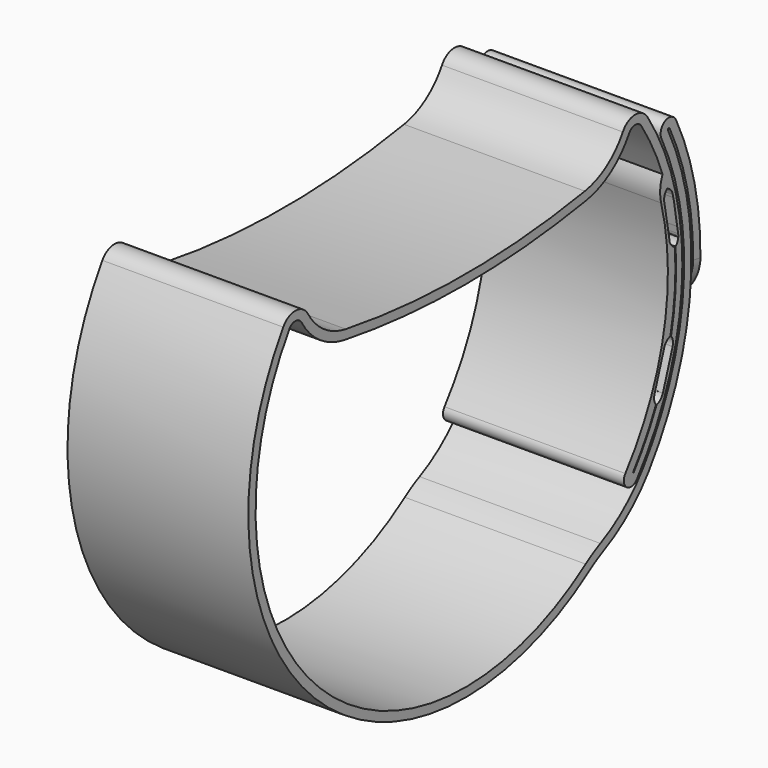
from build123d import *

# Parameters (mm, degrees)
PAD_DEPTH            = 10
POCKET004_DEPTH      = 10.001
POCKET004_DEPTH_BACK = 10.001
FILLET_R             = 5


with BuildPart() as part:
    # Sketch031 → Pad (new body, symmetric)
    with BuildSketch(Plane.YZ):
        with BuildLine():
            ThreePointArc((-25.1785714286, 6.0873812391), (-20.8275502166, -31.8153069654), (17.2072930905, -34.7978986763))
            ThreePointArc((19.0972829456, -33.698609943), (18.1291736499, -34.2085141395), (17.2072930905, -34.7978986763))
            ThreePointArc((19.0972829456, -33.698609943), (22.5681914002, -31.4789887478), (25.3748102311, -28.4628961617))
            ThreePointArc((25.3748102311, -28.4628961617), (31.145297274, -12.7793024717), (28.0089705885, 3.6352364091))
            ThreePointArc((28.2330423532, 3.7461049992), (28.0655721758, 3.8027065865), (28.0089705885, 3.6352364091))
            ThreePointArc((31.066665528, -15.4302839547), (31.1616320501, -5.6186996886), (28.2330423532, 3.7461049992))
            Line((31.066665528, -15.4302839547), (32.0529088781, -15.595583847))
            ThreePointArc((32.0529088781, -15.595583847), (32.1508902105, -5.4725207152), (29.129329412, 4.1895793594))
            ThreePointArc((29.129329412, 4.1895793594), (27.6220978156, 4.6989936454), (27.1126835297, 3.1917620489))
            ThreePointArc((24.5628424703, -27.8791938768), (30.1486495946, -12.6974892471), (27.1126835297, 3.1917620489))
            ThreePointArc((18.6688560963, -32.7950334743), (21.9277036404, -30.7110203695), (24.5628424703, -27.8791938768))
            ThreePointArc((18.6688560963, -32.7950334743), (17.6263968436, -33.3440978723), (16.6337166542, -33.978746632))
            ThreePointArc((-24.3392857143, 5.5436906196), (-20.1332985427, -31.0955746448), (16.6337166542, -33.978746632))
            ThreePointArc((-22.6352951412, 5.5022803073), (-23.4757052121, 5.9997048381), (-24.3392857143, 5.5436906196))
            ThreePointArc((-22.6352951412, 5.5022803073), (-20.1217753495, 2.7817742688), (-16.6898993292, 1.3885184309))
            ThreePointArc((-16.6898993292, 1.3885184309), (0, 0), (16.6898993292, 1.3885184309))
            ThreePointArc((16.6898993292, 1.3885184309), (20.1217753495, 2.7817742688), (22.6352951412, 5.5022803073))
            ThreePointArc((24.3392857143, 5.5436906196), (23.4757052121, 5.9997048381), (22.6352951412, 5.5022803073))
            ThreePointArc((27.2641709757, -0.3407779116), (25.9689416046, 2.6845699939), (24.3392857143, 5.5436906196))
            ThreePointArc((27.2641709757, -0.3407779116), (26.9390804209, -1.6832404813), (27.0677858666, -3.0584948317))
            ThreePointArc((22.1178198442, -27.393137735), (27.4381060497, -15.80458599), (27.0677858666, -3.0584948317))
            ThreePointArc((22.1178198442, -27.393137735), (22.2945348248, -28.7962670289), (23.6976641188, -28.6195520483))
            ThreePointArc((23.6976641188, -28.6195520483), (29.9727276849, -11.5022412242), (25.1785714286, 6.0873812391))
            ThreePointArc((25.1785714286, 6.0873812391), (23.4514104243, 6.9994096762), (21.7705902823, 6.0045606146))
            ThreePointArc((16.5246528012, 2.3747707237), (19.5527787015, 3.6041141101), (21.7705902823, 6.0045606146))
            ThreePointArc((-16.5246528012, 2.3747707237), (0, 1), (16.5246528012, 2.3747707237))
            ThreePointArc((-21.7705902823, 6.0045606146), (-19.5527787015, 3.6041141101), (-16.5246528012, 2.3747707237))
            ThreePointArc((-21.7705902823, 6.0045606146), (-23.4514104243, 6.9994096762), (-25.1785714286, 6.0873812391))
        make_face()
        Polygon((27.5840933648, -3.4048594066), (28.2878580479, -7.5454771468), (29.4708916879, -7.3444015231), (28.7671270049, -3.2037837828), align=None, mode=Mode.SUBTRACT)
        Polygon((27.5163556374, -17.3102281064), (26.1710903804, -21.2889542076), (27.3078692665, -21.6733157096), (28.6531345235, -17.6945896084), align=None, mode=Mode.SUBTRACT)
    extrude(amount=PAD_DEPTH, both=True)

    # Sketch039 → Pocket004 (cut, two sides)
    with BuildSketch(Plane.YZ) as pocket004_sk:
        with BuildLine():
            Line((27.4949433361, -3.1040168152), (28.2442255017, -7.2366402237))
            ThreePointArc((28.2442255017, -7.2366402237), (28.4905833373, -7.7742998522), (28.964758919, -8.1277508063))
            ThreePointArc((28.3448300239, -16.5415137543), (28.9619594976, -12.3572643032), (28.964758919, -8.1277508063))
            ThreePointArc((28.3448300239, -16.5415137543), (27.8239715042, -16.8216502598), (27.501471991, -17.3173962868))
            Line((26.1545833247, -21.2955731206), (27.501471991, -17.3173962868))
            ThreePointArc((26.1545833247, -21.2955731206), (26.1095843724, -21.8852723266), (26.3531287482, -22.4242122085))
            ThreePointArc((23.1927484305, -27.7003268604), (24.9130052946, -25.1461691628), (26.3531287482, -22.4242122085))
            Line((23.1927484305, -27.7003268604), (23.2721556366, -27.7601644822))
            ThreePointArc((23.2721556366, -27.7601644822), (25.001049311, -25.1926749171), (26.4478472443, -22.4562809862))
            ThreePointArc((26.4478472443, -22.4562809862), (26.968705764, -22.1761444807), (27.2912052772, -21.6803984538))
            Line((28.6380939435, -17.70222162), (27.2912052772, -21.6803984538))
            ThreePointArc((28.6380939435, -17.70222162), (28.6830928958, -17.112522414), (28.43954852, -16.5735825321))
            ThreePointArc((28.43954852, -16.5735825321), (29.0611192972, -12.3645704307), (29.0631547145, -8.1099107548))
            ThreePointArc((29.0631547145, -8.1099107548), (29.3830587907, -7.6124859451), (29.424975047, -7.022559605))
            Line((29.424975047, -7.022559605), (28.6756928814, -2.8899361965))
            ThreePointArc((28.6756928814, -2.8899361965), (28.4127513004, -2.3450081602), (27.9069175932, -2.0130185515))
            ThreePointArc((27.9069175932, -2.0130185515), (27.5498359522, -2.5014625518), (27.4949433361, -3.1040168152))
        make_face()
    extrude(amount=-POCKET004_DEPTH, mode=Mode.SUBTRACT)
    extrude(pocket004_sk.sketch, amount=POCKET004_DEPTH_BACK, mode=Mode.SUBTRACT)

    # Fillet
    fillet_edges = [part.edges().sort_by_distance(p)[0] for p in [
        (10, 31.559787, -15.512934),
        (-10, 31.559787, -15.512934),
    ]]
    fillet(fillet_edges, radius=FILLET_R)


solid = part.part
